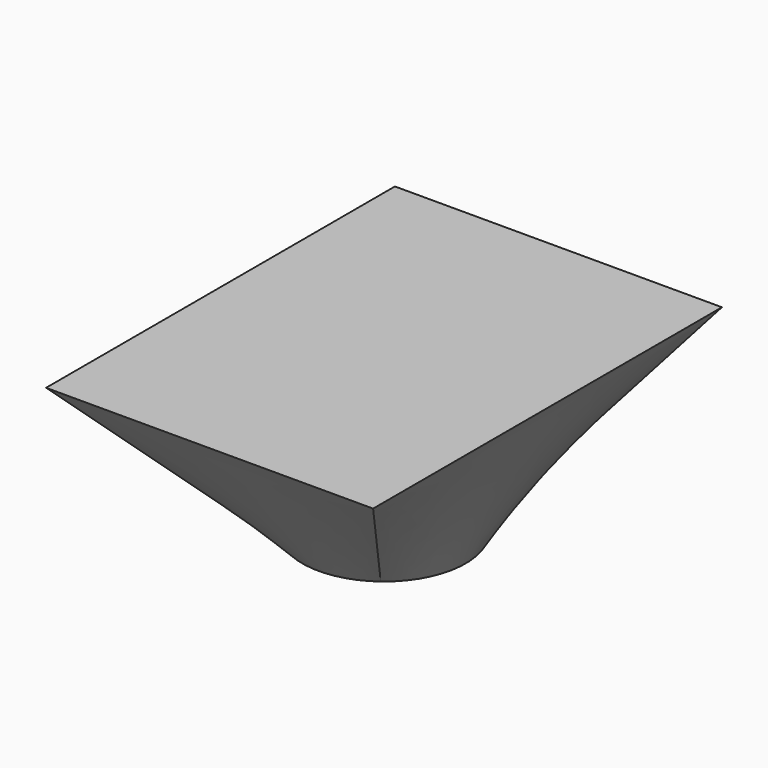
from build123d import *

# Parameters (mm, degrees)
F1_W = 152.4
F1_H = 203.2


with BuildPart() as f3:
    # F2 (on Top) → F3 section 0
    with BuildSketch(Plane.XY):
        with BuildLine():
            ThreePointArc((-22.86, 30.48), (-38.1, 0), (-22.86, -30.48))
            ThreePointArc((-22.86, -30.48), (0, -38.1), (22.86, -30.48))
            ThreePointArc((22.86, -30.48), (38.1, 0), (22.86, 30.48))
            ThreePointArc((22.86, 30.48), (0, 38.1), (-22.86, 30.48))
        make_face()
    # F1 (on offset) → F3 section 1
    with BuildSketch(Plane.XY.offset(76.2)):
        Rectangle(F1_W, F1_H)
    loft()


solid = f3.part
